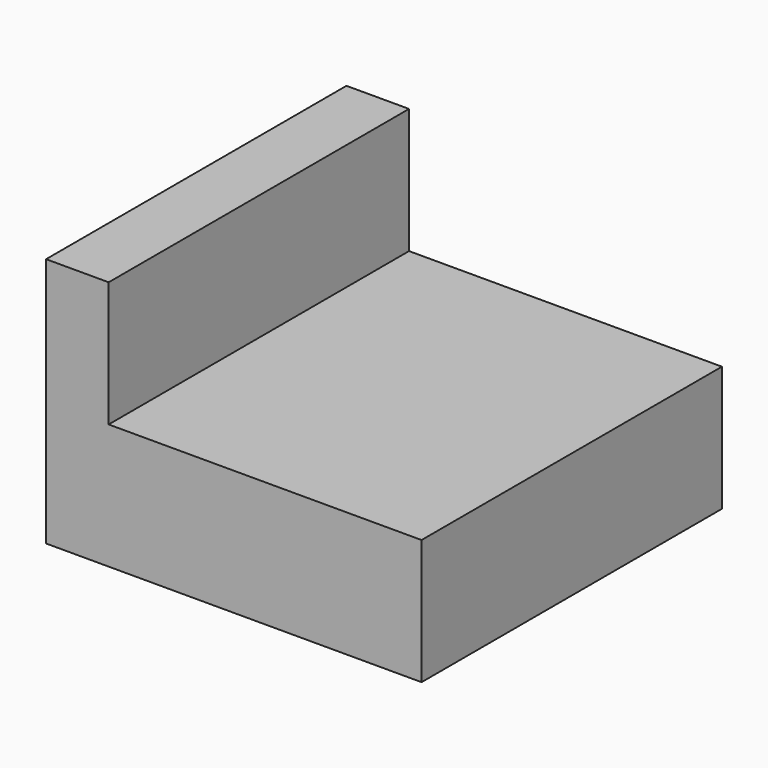
from build123d import *

# Parameters (mm, degrees)
F1_DEPTH = 38.1
F2_W     = 31.75
F2_H     = 12.7
F3_DEPTH = 53.22501


with BuildPart() as f1:
    # F0 (on Front) → F1 (new body)
    with BuildSketch(Plane.XZ):
        Polygon((0, 25.4), (0, 0), (38.1, 0), (38.1, 12.7), (38.1, 25.4), align=None)
    extrude(amount=F1_DEPTH)

    # F2 (on Front) → F3 (cut, symmetric)
    with BuildSketch(Plane.XZ):
        with Locations((22.225, 19.05)):
            Rectangle(F2_W, F2_H)
    extrude(amount=F3_DEPTH, both=True, mode=Mode.SUBTRACT)


solid = f1.part
